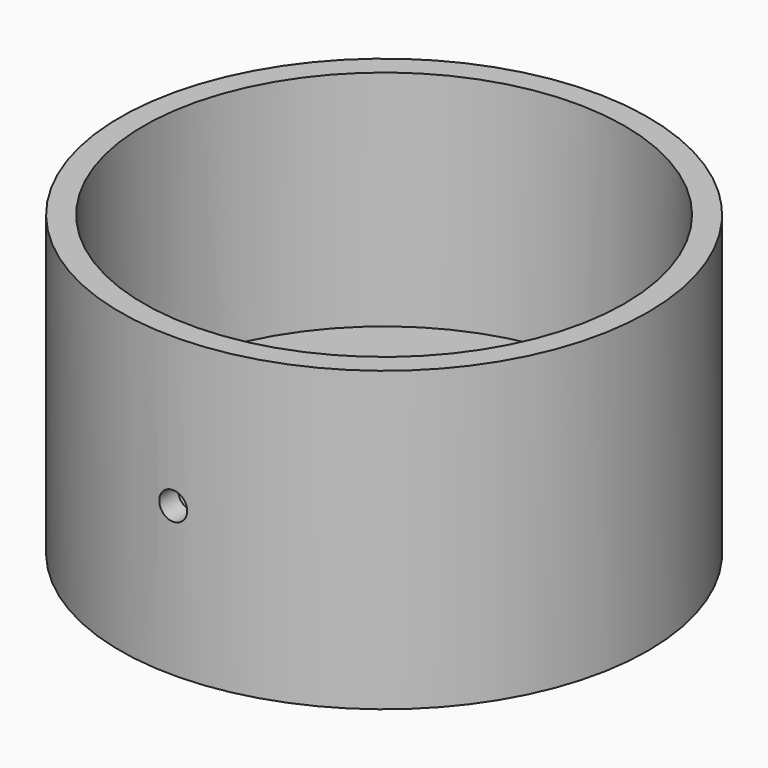
from build123d import *

# Parameters (mm, degrees)
F0_R     = 45
F1_DEPTH = 12.7
F2_R     = 45
F2_R_2   = 41
F3_DEPTH = 38.1
F4_R     = 2.38125
F5_DEPTH = 79.502
F6_R     = 2.38125
F7_DEPTH = 25.4
F8_R     = 12.7
F9_DEPTH = 25.4


with BuildPart() as f1:
    # F0 (on Top) → F1 (new body)
    with BuildSketch(Plane.XY):
        Circle(F0_R)
    extrude(amount=F1_DEPTH)

    # F2 (on face) → F3 (join)
    with BuildSketch(Plane.XY.offset(12.7)):
        Circle(F2_R)
        Circle(F2_R_2, mode=Mode.SUBTRACT)
    extrude(amount=F3_DEPTH)

    # F4 (on Front) → F5 (cut)
    with BuildSketch(Plane.XZ):
        with Locations((0, 25.4)):
            Circle(F4_R)
    extrude(amount=F5_DEPTH, mode=Mode.SUBTRACT)

    # F6 (on face) → F7 (cut)
    with BuildSketch(Plane.XY.offset(12.7)):
        with Locations((-25.4, 0)):
            Circle(F6_R)
        with Locations((25.4, 0)):
            Circle(F6_R)
    extrude(amount=-F7_DEPTH, mode=Mode.SUBTRACT)

    # F8 (on face) → F9 (cut)
    with BuildSketch(Plane.XY.offset(12.7)):
        with Locations((0, 10.16)):
            Circle(F8_R)
    extrude(amount=-F9_DEPTH, mode=Mode.SUBTRACT)


solid = f1.part
